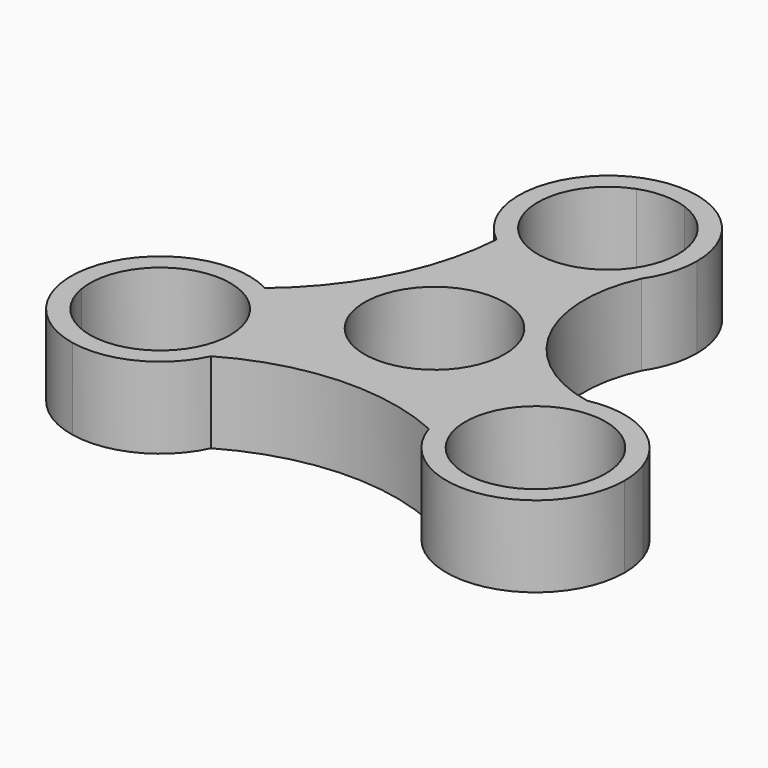
from build123d import *

# Parameters (mm, degrees)
F0_R     = 13.97
F0_R_2   = 10.9982
F1_DEPTH = 12.7


with BuildPart() as f1:
    # F0 (on Top) → F1 (new body)
    with BuildSketch(Plane.XY):
        with BuildLine():
            ThreePointArc((16.1051536961, -21.2436426615), (17.3295442362, -9.9599210186), (26.5268333458, -3.3092534322))
            ThreePointArc((26.5268333458, -3.3092534322), (11.8850746566, 7.7674924981), (11.5671555945, 26.1243529429))
            ThreePointArc((11.5671555945, 26.1243529429), (2.0600739599, 20.1404593494), (-8.7790572587, 23.0908522342))
            ThreePointArc((-8.7790572587, 23.0908522342), (-12.9749986172, 7.7809801652), (-22.865745882, -4.6355904239))
            ThreePointArc((-22.865745882, -4.6355904239), (-17.4382996656, -9.7760184777), (-15.4382576825, -16.9788654894))
            ThreePointArc((-15.4382576825, -16.9788654894), (-15.7671993387, -19.9925720546), (-16.7385335967, -22.8643554087))
            ThreePointArc((-16.7385335967, -22.8643554087), (-0.5124879595, -18.0861592081), (16.1051536961, -21.2436426615))
        make_face()
        Circle(F0_R, mode=Mode.SUBTRACT)
        with BuildLine():
            ThreePointArc((-22.865745882, -4.6355904239), (-34.5827239411, -4.0025101097), (-42.649053732, -12.5244048067))
            ThreePointArc((-42.649053732, -12.5244048067), (-41.566588122, -15.7486904821), (-40.2407622083, -18.8807721477))
            ThreePointArc((-40.2407622083, -18.8807721477), (-30.3628130668, -6.022167663), (-18.4100576825, -16.9788654894))
            ThreePointArc((-18.4100576825, -16.9788654894), (-24.7565779814, -26.9449218408), (-36.4716094271, -25.4091362662))
            ThreePointArc((-36.4716094271, -25.4091362662), (-34.4220600948, -28.1233760212), (-32.1709795959, -30.672961576))
            ThreePointArc((-32.1709795959, -30.672961576), (-23.1010589715, -29.4440227054), (-16.7385335967, -22.8643554087))
            ThreePointArc((-16.7385335967, -22.8643554087), (-15.7671993387, -19.9925720546), (-15.4382576825, -16.9788654894))
            ThreePointArc((-15.4382576825, -16.9788654894), (-17.4382996656, -9.7760184777), (-22.865745882, -4.6355904239))
        make_face()
        with BuildLine():
            ThreePointArc((13.97, 33.9577309787), (13.0678918667, 38.8964658531), (10.4780741361, 43.1973663827))
            ThreePointArc((10.4780741361, 43.1973663827), (7.1445280272, 43.8720665033), (3.7691527812, 44.2899084139))
            ThreePointArc((3.7691527812, 44.2899084139), (9.011500967, 40.2627491041), (10.9982, 33.9577309787))
            ThreePointArc((10.9982, 33.9577309787), (-6.3050181253, 24.9462300117), (-3.7691527812, 44.2899084139))
            ThreePointArc((-3.7691527812, 44.2899084139), (-7.1445280272, 43.8720665033), (-10.4780741361, 43.1973663827))
            ThreePointArc((-10.4780741361, 43.1973663827), (-13.920389908, 32.7814466551), (-8.7790572587, 23.0908522342))
            ThreePointArc((-8.7790572587, 23.0908522342), (2.0600739599, 20.1404593494), (11.5671555945, 26.1243529429))
            ThreePointArc((11.5671555945, 26.1243529429), (13.3557864549, 29.8609190264), (13.97, 33.9577309787))
        make_face()
        with BuildLine():
            ThreePointArc((-40.2407622083, -18.8807721477), (-41.566588122, -15.7486904821), (-42.649053732, -12.5244048067))
            ThreePointArc((-42.649053732, -12.5244048067), (-41.5066325733, -23.9638654894), (-32.1709795959, -30.672961576))
            ThreePointArc((-32.1709795959, -30.672961576), (-34.4220600948, -28.1233760212), (-36.4716094271, -25.4091362662))
            ThreePointArc((-36.4716094271, -25.4091362662), (-38.9329782784, -22.4779654894), (-40.2407622083, -18.8807721477))
        make_face()
        with BuildLine():
            ThreePointArc((3.7691527812, 44.2899084139), (7.1445280272, 43.8720665033), (10.4780741361, 43.1973663827))
            ThreePointArc((10.4780741361, 43.1973663827), (0, 47.9277309787), (-10.4780741361, 43.1973663827))
            ThreePointArc((-10.4780741361, 43.1973663827), (-7.1445280272, 43.8720665033), (-3.7691527812, 44.2899084139))
            ThreePointArc((-3.7691527812, 44.2899084139), (0, 44.9559309787), (3.7691527812, 44.2899084139))
        make_face()
        with BuildLine():
            ThreePointArc((43.3782576825, -16.9788654894), (43.1947514501, -14.7219894197), (42.649053732, -12.5244048067))
            ThreePointArc((42.649053732, -12.5244048067), (41.566588122, -15.7486904821), (40.2407622083, -18.8807721477))
            ThreePointArc((40.2407622083, -18.8807721477), (38.9329782784, -22.4779654894), (36.4716094271, -25.4091362662))
            ThreePointArc((36.4716094271, -25.4091362662), (34.4220600948, -28.1233760212), (32.1709795959, -30.672961576))
            ThreePointArc((32.1709795959, -30.672961576), (40.2192734796, -25.8266243827), (43.3782576825, -16.9788654894))
        make_face()
        with BuildLine():
            ThreePointArc((40.2407622083, -18.8807721477), (41.566588122, -15.7486904821), (42.649053732, -12.5244048067))
            ThreePointArc((42.649053732, -12.5244048067), (36.3407102993, -4.8503041272), (26.5268333458, -3.3092534322))
            ThreePointArc((26.5268333458, -3.3092534322), (17.3295442362, -9.9599210186), (16.1051536961, -21.2436426615))
            ThreePointArc((16.1051536961, -21.2436426615), (22.3369828781, -29.0270177395), (32.1709795959, -30.672961576))
            ThreePointArc((32.1709795959, -30.672961576), (34.4220600948, -28.1233760212), (36.4716094271, -25.4091362662))
            ThreePointArc((36.4716094271, -25.4091362662), (19.4422013311, -12.3271857883), (40.4064576825, -16.9788654894))
            ThreePointArc((40.4064576825, -16.9788654894), (40.3649555088, -17.9334208737), (40.2407622083, -18.8807721477))
        make_face()
        Circle(F0_R)
        Circle(F0_R_2, mode=Mode.SUBTRACT)
    extrude(amount=F1_DEPTH)


solid = f1.part
